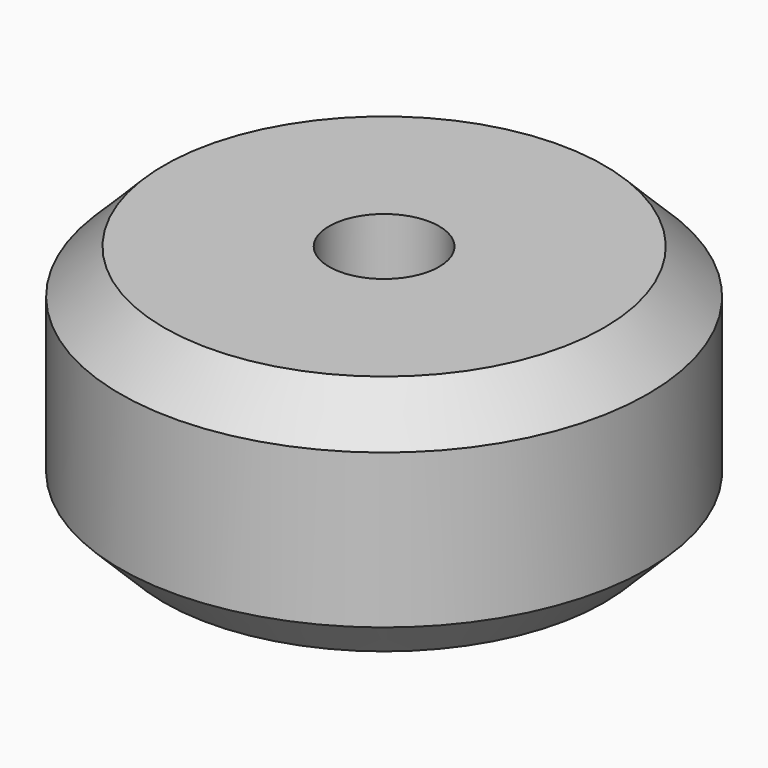
from build123d import *

# Parameters (mm, degrees)
SKETCH_R     = 12
SKETCH_R_2   = 2.5
PAD_DEPTH    = 11
CHAMFER_SIZE = 2


with BuildPart() as part:
    # Sketch → Pad (new body)
    with BuildSketch(Plane.XY):
        Circle(SKETCH_R)
        Circle(SKETCH_R_2, mode=Mode.SUBTRACT)
    extrude(amount=PAD_DEPTH)

    # Chamfer
    chamfer_edges = [part.edges().sort_by_distance(p)[0] for p in [
        (-12, 0, 11),
        (-12, 0, 0),
    ]]
    chamfer(chamfer_edges, length=CHAMFER_SIZE)


solid = part.part
